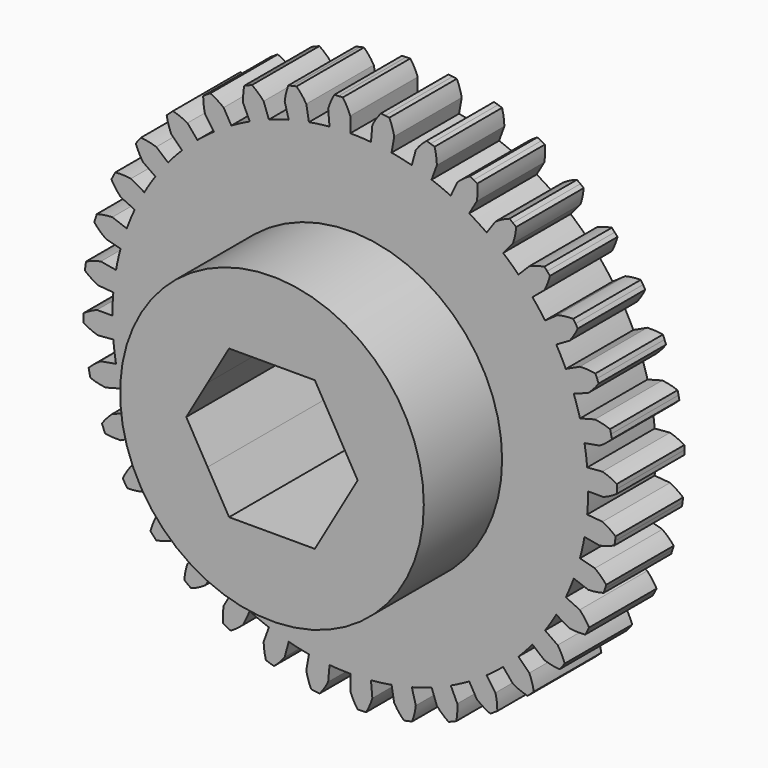
from build123d import *

# Parameters (mm, degrees)
F1_DEPTH = 6.35
F2_R     = 11.43
F3_DEPTH = 7.366
F5_DEPTH = 42.672


with BuildPart() as f1:
    # F0 (on Front) → F1 (new body)
    with BuildSketch(Plane.XZ):
        with BuildLine():
            ThreePointArc((0, 19.05), (0.00173287, 19.0499999212), (0.0034657401, 19.0499996847))
            ThreePointArc((0.0034657401, 19.0499996847), (0.001735123, 19.0544738234), (0, 19.0589462165))
            Line((0, 19.0589462165), (0, 19.05))
        make_face()
        with BuildLine():
            Line((0, 17.901144426), (0, 19.05))
            Line((0, 19.05), (0, 19.0589462165))
            ThreePointArc((0, 19.0589462165), (-0.2475502496, 19.595005357), (-0.5595310718, 20.096312144))
            ThreePointArc((-0.5595310718, 20.096312144), (-0.7182522058, 20.0912655295), (-0.8769285255, 20.0849653515))
            ThreePointArc((-0.8769285255, 20.0849653515), (-1.0355501307, 20.077412003), (-1.1941071242, 20.0686059552))
            ThreePointArc((-1.1941071242, 20.0686059552), (-1.4612089999, 19.5420158716), (-1.6610966135, 18.9864211721))
            Line((-1.6610966135, 18.9864211721), (-1.5601875385, 17.8330251669))
            ThreePointArc((-1.5601875385, 17.8330251669), (-2.3365682183, 17.7479976538), (-3.1085011077, 17.6291858185))
            Line((-3.1085011077, 17.6291858185), (-3.3095512788, 18.7693979983))
            ThreePointArc((-3.3095512788, 18.7693979983), (-3.6464263767, 19.2543265462), (-4.0407185192, 19.6938424554))
            ThreePointArc((-4.0407185192, 19.6938424554), (-4.1961519871, 19.6613108747), (-4.3513236426, 19.6275525567))
            ThreePointArc((-4.3513236426, 19.6275525567), (-4.5062238039, 19.5925696079), (-4.6608428063, 19.5563642108))
            ThreePointArc((-4.6608428063, 19.5563642108), (-4.8324453959, 18.9913924598), (-4.9328182604, 18.4095283724))
            Line((-4.9328182604, 18.4095283724), (-4.6331571066, 17.2911777212))
            ThreePointArc((-4.6331571066, 17.2911777212), (-5.3829779467, 17.0726248768), (-6.1225519823, 16.8215733207))
            Line((-6.1225519823, 16.8215733207), (-6.5185435166, 17.9095511196))
            ThreePointArc((-6.5185435166, 17.9095511196), (-6.9345076835, 18.3286147664), (-7.3991307791, 18.6929853294))
            ThreePointArc((-7.3991307791, 18.6929853294), (-7.5465538137, 18.633957238), (-7.6935059926, 18.5737665096))
            ThreePointArc((-7.6935059926, 18.5737665096), (-7.8399781471, 18.5124168996), (-7.9859611382, 18.4499122358))
            ThreePointArc((-7.9859611382, 18.4499122358), (-8.0568503839, 17.8637251983), (-8.0546587206, 17.2732713688))
            Line((-8.0546587206, 17.2732713688), (-7.5653505405, 16.2239465901))
            ThreePointArc((-7.5653505405, 16.2239465901), (-8.265828614, 15.8785090321), (-8.950572213, 15.5028458297))
            Line((-8.950572213, 15.5028458297), (-9.5294731083, 16.5055315929))
            ThreePointArc((-9.5294731083, 16.5055315929), (-10.0118874833, 16.8459973017), (-10.5327241944, 17.1241513032))
            ThreePointArc((-10.5327241944, 17.1241513032), (-10.6676574213, 17.0404202399), (-10.8019250562, 16.9556259658))
            ThreePointArc((-10.8019250562, 16.9556259658), (-10.9355187215, 16.8697737715), (-11.068430082, 16.7828690136))
            ThreePointArc((-11.068430082, 16.7828690136), (-11.03645205, 16.193277686), (-10.9317624515, 15.6121747553))
            Line((-10.9317624515, 15.6121747553), (-10.2676746265, 14.6637590516))
            ThreePointArc((-10.2676746265, 14.6637590516), (-10.8975262616, 14.2019327254), (-11.5066338362, 13.713072213))
            Line((-11.5066338362, 13.713072213), (-12.2508544817, 14.5999998409))
            ThreePointArc((-12.2508544817, 14.5999998409), (-12.7850611483, 14.8515227334), (-13.3462861149, 15.0350086049))
            ThreePointArc((-13.3462861149, 15.0350086049), (-13.4646296563, 14.9291186956), (-13.5821330929, 14.822297307))
            ThreePointArc((-13.5821330929, 14.822297307), (-13.6987890932, 14.7145511039), (-13.8145903787, 14.605886809))
            ThreePointArc((-13.8145903787, 14.605886809), (-13.6807167052, 14.0308056255), (-13.476710112, 13.476710112))
            Line((-13.476710112, 13.476710112), (-12.6580206146, 12.6580206146))
            ThreePointArc((-12.6580206146, 12.6580206146), (-13.1981080882, 12.0938378793), (-13.713072213, 11.5066338362))
            Line((-13.713072213, 11.5066338362), (-14.5999998409, 12.2508544817))
            ThreePointArc((-14.5999998409, 12.2508544817), (-15.1697671998, 12.4057921622), (-15.7543278853, 12.4890347782))
            ThreePointArc((-15.7543278853, 12.4890347782), (-15.8524859327, 12.3642034343), (-15.9496548885, 12.2386006449))
            ThreePointArc((-15.9496548885, 12.2386006449), (-16.0458286903, 12.1122342469), (-16.1410013372, 11.9851121247))
            ThreePointArc((-16.1410013372, 11.9851121247), (-15.9092997061, 11.442014636), (-15.6121747553, 10.9317624515))
            Line((-15.6121747553, 10.9317624515), (-14.6637590516, 10.2676746265))
            ThreePointArc((-14.6637590516, 10.2676746265), (-15.0976720791, 9.618277889), (-15.5028458297, 8.950572213))
            Line((-15.5028458297, 8.950572213), (-16.5055315929, 9.5294731083))
            ThreePointArc((-16.5055315929, 9.5294731083), (-17.0935475512, 9.5831178737), (-17.683682375, 9.5635879496))
            ThreePointArc((-17.683682375, 9.5635879496), (-17.7586724457, 9.4236081082), (-17.8325544913, 9.2830402953))
            ThreePointArc((-17.8325544913, 9.2830402953), (-17.9053239021, 9.1418932814), (-17.9769761379, 9.0001758732))
            ThreePointArc((-17.9769761379, 9.0001758732), (-17.6544866859, 8.5055638216), (-17.2732713688, 8.0546587206))
            Line((-17.2732713688, 8.0546587206), (-16.2239465901, 7.5653505405))
            ThreePointArc((-16.2239465901, 7.5653505405), (-16.5385009437, 6.8504713922), (-16.8215733207, 6.1225519823))
            Line((-16.8215733207, 6.1225519823), (-17.9095511196, 6.5185435166))
            ThreePointArc((-17.9095511196, 6.5185435166), (-18.4979491101, 6.4692653979), (-19.0757271241, 6.3475563405))
            ThreePointArc((-19.0757271241, 6.3475563405), (-19.1252706827, 6.1966812184), (-19.1736209495, 6.0454194638))
            ThreePointArc((-19.1736209495, 6.0454194638), (-19.2207749078, 5.8937805146), (-19.2667296154, 5.7417738321))
            ThreePointArc((-19.2667296154, 5.7417738321), (-18.8632510214, 5.3106757546), (-18.4095283724, 4.9328182604))
            Line((-18.4095283724, 4.9328182604), (-17.2911777212, 4.6331571066))
            ThreePointArc((-17.2911777212, 4.6331571066), (-17.476815826, 3.8745167886), (-17.6291858185, 3.1085011077))
            Line((-17.6291858185, 3.1085011077), (-18.7693979983, 3.3095512788))
            ThreePointArc((-18.7693979983, 3.3095512788), (-19.3402998456, 3.1588475666), (-19.8881655573, 2.9386574441))
            ThreePointArc((-19.8881655573, 2.9386574441), (-19.910757248, 2.7814713053), (-19.9321066375, 2.624111621))
            ThreePointArc((-19.9321066375, 2.624111621), (-19.952212394, 2.4665882093), (-19.9710732629, 2.3089108986))
            ThreePointArc((-19.9710732629, 2.3089108986), (-19.4988650199, 1.9544254922), (-18.9864211721, 1.6610966135))
            Line((-18.9864211721, 1.6610966135), (-17.8330251669, 1.5601875385))
            ThreePointArc((-17.8330251669, 1.5601875385), (-17.884106503, 0.780836953), (-17.901144426, 0))
            Line((-17.901144426, 0), (-19.0589462165, 0))
            ThreePointArc((-19.0589462165, 0), (-19.595005357, -0.2475502496), (-20.096312144, -0.5595310718))
            ThreePointArc((-20.096312144, -0.5595310718), (-20.0912655295, -0.7182522058), (-20.0849653515, -0.8769285255))
            ThreePointArc((-20.0849653515, -0.8769285255), (-20.077412003, -1.0355501307), (-20.0686059552, -1.1941071242))
            ThreePointArc((-20.0686059552, -1.1941071242), (-19.5420158716, -1.4612089999), (-18.9864211721, -1.6610966135))
            Line((-18.9864211721, -1.6610966135), (-17.8330251669, -1.5601875385))
            ThreePointArc((-17.8330251669, -1.5601875385), (-17.7479976538, -2.3365682183), (-17.6291858185, -3.1085011077))
            Line((-17.6291858185, -3.1085011077), (-18.7693979983, -3.3095512788))
            ThreePointArc((-18.7693979983, -3.3095512788), (-19.2543265462, -3.6464263767), (-19.6938424554, -4.0407185192))
            ThreePointArc((-19.6938424554, -4.0407185192), (-19.6613108747, -4.1961519871), (-19.6275525567, -4.3513236426))
            ThreePointArc((-19.6275525567, -4.3513236426), (-19.5925696079, -4.5062238039), (-19.5563642108, -4.6608428063))
            ThreePointArc((-19.5563642108, -4.6608428063), (-18.9913924598, -4.8324453959), (-18.4095283724, -4.9328182604))
            Line((-18.4095283724, -4.9328182604), (-17.2911777212, -4.6331571066))
            ThreePointArc((-17.2911777212, -4.6331571066), (-17.0726248768, -5.3829779467), (-16.8215733207, -6.1225519823))
            Line((-16.8215733207, -6.1225519823), (-17.9095511196, -6.5185435166))
            ThreePointArc((-17.9095511196, -6.5185435166), (-18.3286147664, -6.9345076835), (-18.6929853294, -7.3991307791))
            ThreePointArc((-18.6929853294, -7.3991307791), (-18.633957238, -7.5465538137), (-18.5737665096, -7.6935059926))
            ThreePointArc((-18.5737665096, -7.6935059926), (-18.5124168996, -7.8399781471), (-18.4499122358, -7.9859611382))
            ThreePointArc((-18.4499122358, -7.9859611382), (-17.8637251983, -8.0568503839), (-17.2732713688, -8.0546587206))
            Line((-17.2732713688, -8.0546587206), (-16.2239465901, -7.5653505405))
            ThreePointArc((-16.2239465901, -7.5653505405), (-15.8785090321, -8.265828614), (-15.5028458297, -8.950572213))
            Line((-15.5028458297, -8.950572213), (-16.5055315929, -9.5294731083))
            ThreePointArc((-16.5055315929, -9.5294731083), (-16.8459973017, -10.0118874833), (-17.1241513032, -10.5327241944))
            ThreePointArc((-17.1241513032, -10.5327241944), (-17.0404202399, -10.6676574213), (-16.9556259658, -10.8019250562))
            ThreePointArc((-16.9556259658, -10.8019250562), (-16.8697737715, -10.9355187215), (-16.7828690136, -11.068430082))
            ThreePointArc((-16.7828690136, -11.068430082), (-16.193277686, -11.03645205), (-15.6121747553, -10.9317624515))
            Line((-15.6121747553, -10.9317624515), (-14.6637590516, -10.2676746265))
            ThreePointArc((-14.6637590516, -10.2676746265), (-14.2019327254, -10.8975262616), (-13.713072213, -11.5066338362))
            Line((-13.713072213, -11.5066338362), (-14.5999998409, -12.2508544817))
            ThreePointArc((-14.5999998409, -12.2508544817), (-14.8515227334, -12.7850611483), (-15.0350086049, -13.3462861149))
            ThreePointArc((-15.0350086049, -13.3462861149), (-14.9291186956, -13.4646296563), (-14.822297307, -13.5821330929))
            ThreePointArc((-14.822297307, -13.5821330929), (-14.7145511039, -13.6987890932), (-14.605886809, -13.8145903787))
            ThreePointArc((-14.605886809, -13.8145903787), (-14.0308056255, -13.6807167052), (-13.476710112, -13.476710112))
            Line((-13.476710112, -13.476710112), (-12.6580206146, -12.6580206146))
            ThreePointArc((-12.6580206146, -12.6580206146), (-12.0938378793, -13.1981080882), (-11.5066338362, -13.713072213))
            Line((-11.5066338362, -13.713072213), (-12.2508544817, -14.5999998409))
            ThreePointArc((-12.2508544817, -14.5999998409), (-12.4057921622, -15.1697671998), (-12.4890347782, -15.7543278853))
            ThreePointArc((-12.4890347782, -15.7543278853), (-12.3642034343, -15.8524859327), (-12.2386006449, -15.9496548885))
            ThreePointArc((-12.2386006449, -15.9496548885), (-12.1122342469, -16.0458286903), (-11.9851121247, -16.1410013372))
            ThreePointArc((-11.9851121247, -16.1410013372), (-11.442014636, -15.9092997061), (-10.9317624515, -15.6121747553))
            Line((-10.9317624515, -15.6121747553), (-10.2676746265, -14.6637590516))
            ThreePointArc((-10.2676746265, -14.6637590516), (-9.618277889, -15.0976720791), (-8.950572213, -15.5028458297))
            Line((-8.950572213, -15.5028458297), (-9.5294731083, -16.5055315929))
            ThreePointArc((-9.5294731083, -16.5055315929), (-9.5831178737, -17.0935475512), (-9.5635879496, -17.683682375))
            ThreePointArc((-9.5635879496, -17.683682375), (-9.4236081082, -17.7586724457), (-9.2830402953, -17.8325544913))
            ThreePointArc((-9.2830402953, -17.8325544913), (-9.1418932814, -17.9053239021), (-9.0001758732, -17.9769761379))
            ThreePointArc((-9.0001758732, -17.9769761379), (-8.5055638216, -17.6544866859), (-8.0546587206, -17.2732713688))
            Line((-8.0546587206, -17.2732713688), (-7.5653505405, -16.2239465901))
            ThreePointArc((-7.5653505405, -16.2239465901), (-6.8504713922, -16.5385009437), (-6.1225519823, -16.8215733207))
            Line((-6.1225519823, -16.8215733207), (-6.5185435166, -17.9095511196))
            ThreePointArc((-6.5185435166, -17.9095511196), (-6.4692653979, -18.4979491101), (-6.3475563405, -19.0757271241))
            ThreePointArc((-6.3475563405, -19.0757271241), (-6.1966812184, -19.1252706827), (-6.0454194638, -19.1736209495))
            ThreePointArc((-6.0454194638, -19.1736209495), (-5.8937805146, -19.2207749078), (-5.7417738321, -19.2667296154))
            ThreePointArc((-5.7417738321, -19.2667296154), (-5.3106757546, -18.8632510214), (-4.9328182604, -18.4095283724))
            Line((-4.9328182604, -18.4095283724), (-4.6331571066, -17.2911777212))
            ThreePointArc((-4.6331571066, -17.2911777212), (-3.8745167886, -17.476815826), (-3.1085011077, -17.6291858185))
            Line((-3.1085011077, -17.6291858185), (-3.3095512788, -18.7693979983))
            ThreePointArc((-3.3095512788, -18.7693979983), (-3.1588475666, -19.3402998456), (-2.9386574441, -19.8881655573))
            ThreePointArc((-2.9386574441, -19.8881655573), (-2.7814713053, -19.910757248), (-2.624111621, -19.9321066375))
            ThreePointArc((-2.624111621, -19.9321066375), (-2.4665882093, -19.952212394), (-2.3089108986, -19.9710732629))
            ThreePointArc((-2.3089108986, -19.9710732629), (-1.9544254922, -19.4988650199), (-1.6610966135, -18.9864211721))
            Line((-1.6610966135, -18.9864211721), (-1.5601875385, -17.8330251669))
            ThreePointArc((-1.5601875385, -17.8330251669), (-0.780836953, -17.884106503), (0, -17.901144426))
            Line((0, -17.901144426), (0, -19.0589462165))
            ThreePointArc((0, -19.0589462165), (0.2475502496, -19.595005357), (0.5595310718, -20.096312144))
            ThreePointArc((0.5595310718, -20.096312144), (0.7182522058, -20.0912655295), (0.8769285255, -20.0849653515))
            ThreePointArc((0.8769285255, -20.0849653515), (1.0355501307, -20.077412003), (1.1941071242, -20.0686059552))
            ThreePointArc((1.1941071242, -20.0686059552), (1.4612089999, -19.5420158716), (1.6610966135, -18.9864211721))
            Line((1.6610966135, -18.9864211721), (1.5601875385, -17.8330251669))
            ThreePointArc((1.5601875385, -17.8330251669), (2.3365682183, -17.7479976538), (3.1085011077, -17.6291858185))
            Line((3.1085011077, -17.6291858185), (3.3095512788, -18.7693979983))
            ThreePointArc((3.3095512788, -18.7693979983), (3.6464263767, -19.2543265462), (4.0407185192, -19.6938424554))
            ThreePointArc((4.0407185192, -19.6938424554), (4.1961519871, -19.6613108747), (4.3513236426, -19.6275525567))
            ThreePointArc((4.3513236426, -19.6275525567), (4.5062238039, -19.5925696079), (4.6608428063, -19.5563642108))
            ThreePointArc((4.6608428063, -19.5563642108), (4.8324453959, -18.9913924598), (4.9328182604, -18.4095283724))
            Line((4.9328182604, -18.4095283724), (4.6331571066, -17.2911777212))
            ThreePointArc((4.6331571066, -17.2911777212), (5.3829779467, -17.0726248768), (6.1225519823, -16.8215733207))
            Line((6.1225519823, -16.8215733207), (6.5185435166, -17.9095511196))
            ThreePointArc((6.5185435166, -17.9095511196), (6.9345076835, -18.3286147664), (7.3991307791, -18.6929853294))
            ThreePointArc((7.3991307791, -18.6929853294), (7.5465538137, -18.633957238), (7.6935059926, -18.5737665096))
            ThreePointArc((7.6935059926, -18.5737665096), (7.8399781471, -18.5124168996), (7.9859611382, -18.4499122358))
            ThreePointArc((7.9859611382, -18.4499122358), (8.0568503839, -17.8637251983), (8.0546587206, -17.2732713688))
            Line((8.0546587206, -17.2732713688), (7.5653505405, -16.2239465901))
            ThreePointArc((7.5653505405, -16.2239465901), (8.265828614, -15.8785090321), (8.950572213, -15.5028458297))
            Line((8.950572213, -15.5028458297), (9.5294731083, -16.5055315929))
            ThreePointArc((9.5294731083, -16.5055315929), (10.0118874833, -16.8459973017), (10.5327241944, -17.1241513032))
            ThreePointArc((10.5327241944, -17.1241513032), (10.6676574213, -17.0404202399), (10.8019250562, -16.9556259658))
            ThreePointArc((10.8019250562, -16.9556259658), (10.9355187215, -16.8697737715), (11.068430082, -16.7828690136))
            ThreePointArc((11.068430082, -16.7828690136), (11.03645205, -16.193277686), (10.9317624515, -15.6121747553))
            Line((10.9317624515, -15.6121747553), (10.2676746265, -14.6637590516))
            ThreePointArc((10.2676746265, -14.6637590516), (10.8975262616, -14.2019327254), (11.5066338362, -13.713072213))
            Line((11.5066338362, -13.713072213), (12.2508544817, -14.5999998409))
            ThreePointArc((12.2508544817, -14.5999998409), (12.7850611483, -14.8515227334), (13.3462861149, -15.0350086049))
            ThreePointArc((13.3462861149, -15.0350086049), (13.4646296563, -14.9291186956), (13.5821330929, -14.822297307))
            ThreePointArc((13.5821330929, -14.822297307), (13.6987890932, -14.7145511039), (13.8145903787, -14.605886809))
            ThreePointArc((13.8145903787, -14.605886809), (13.6807167052, -14.0308056255), (13.476710112, -13.476710112))
            Line((13.476710112, -13.476710112), (12.6580206146, -12.6580206146))
            ThreePointArc((12.6580206146, -12.6580206146), (13.1981080882, -12.0938378793), (13.713072213, -11.5066338362))
            Line((13.713072213, -11.5066338362), (14.5999998409, -12.2508544817))
            ThreePointArc((14.5999998409, -12.2508544817), (15.1697671998, -12.4057921622), (15.7543278853, -12.4890347782))
            ThreePointArc((15.7543278853, -12.4890347782), (15.8524859327, -12.3642034343), (15.9496548885, -12.2386006449))
            ThreePointArc((15.9496548885, -12.2386006449), (16.0458286903, -12.1122342469), (16.1410013372, -11.9851121247))
            ThreePointArc((16.1410013372, -11.9851121247), (15.9092997061, -11.442014636), (15.6121747553, -10.9317624515))
            Line((15.6121747553, -10.9317624515), (14.6637590516, -10.2676746265))
            ThreePointArc((14.6637590516, -10.2676746265), (15.0976720791, -9.618277889), (15.5028458297, -8.950572213))
            Line((15.5028458297, -8.950572213), (16.5055315929, -9.5294731083))
            ThreePointArc((16.5055315929, -9.5294731083), (17.0935475512, -9.5831178737), (17.683682375, -9.5635879496))
            ThreePointArc((17.683682375, -9.5635879496), (17.7586724457, -9.4236081082), (17.8325544913, -9.2830402953))
            ThreePointArc((17.8325544913, -9.2830402953), (17.9053239021, -9.1418932814), (17.9769761379, -9.0001758732))
            ThreePointArc((17.9769761379, -9.0001758732), (17.6544866859, -8.5055638216), (17.2732713688, -8.0546587206))
            Line((17.2732713688, -8.0546587206), (16.2239465901, -7.5653505405))
            ThreePointArc((16.2239465901, -7.5653505405), (16.5385009437, -6.8504713922), (16.8215733207, -6.1225519823))
            Line((16.8215733207, -6.1225519823), (17.9095511196, -6.5185435166))
            ThreePointArc((17.9095511196, -6.5185435166), (18.4979491101, -6.4692653979), (19.0757271241, -6.3475563405))
            ThreePointArc((19.0757271241, -6.3475563405), (19.1252706827, -6.1966812184), (19.1736209495, -6.0454194638))
            ThreePointArc((19.1736209495, -6.0454194638), (19.2207749078, -5.8937805146), (19.2667296154, -5.7417738321))
            ThreePointArc((19.2667296154, -5.7417738321), (18.8632510214, -5.3106757546), (18.4095283724, -4.9328182604))
            Line((18.4095283724, -4.9328182604), (17.2911777212, -4.6331571066))
            ThreePointArc((17.2911777212, -4.6331571066), (17.476815826, -3.8745167886), (17.6291858185, -3.1085011077))
            Line((17.6291858185, -3.1085011077), (18.7693979983, -3.3095512788))
            ThreePointArc((18.7693979983, -3.3095512788), (19.3402998456, -3.1588475666), (19.8881655573, -2.9386574441))
            ThreePointArc((19.8881655573, -2.9386574441), (19.910757248, -2.7814713053), (19.9321066375, -2.624111621))
            ThreePointArc((19.9321066375, -2.624111621), (19.952212394, -2.4665882093), (19.9710732629, -2.3089108986))
            ThreePointArc((19.9710732629, -2.3089108986), (19.4988650199, -1.9544254922), (18.9864211721, -1.6610966135))
            Line((18.9864211721, -1.6610966135), (17.8330251669, -1.5601875385))
            ThreePointArc((17.8330251669, -1.5601875385), (17.884106503, -0.780836953), (17.901144426, 0))
            Line((17.901144426, 0), (19.0589462165, 0))
            ThreePointArc((19.0589462165, 0), (19.595005357, 0.2475502496), (20.096312144, 0.5595310718))
            ThreePointArc((20.096312144, 0.5595310718), (20.0912655295, 0.7182522058), (20.0849653515, 0.8769285255))
            ThreePointArc((20.0849653515, 0.8769285255), (20.077412003, 1.0355501307), (20.0686059552, 1.1941071242))
            ThreePointArc((20.0686059552, 1.1941071242), (19.5420158716, 1.4612089999), (18.9864211721, 1.6610966135))
            Line((18.9864211721, 1.6610966135), (17.8330251669, 1.5601875385))
            ThreePointArc((17.8330251669, 1.5601875385), (17.7479976538, 2.3365682183), (17.6291858185, 3.1085011077))
            Line((17.6291858185, 3.1085011077), (18.7693979983, 3.3095512788))
            ThreePointArc((18.7693979983, 3.3095512788), (19.2543265462, 3.6464263767), (19.6938424554, 4.0407185192))
            ThreePointArc((19.6938424554, 4.0407185192), (19.6613108747, 4.1961519871), (19.6275525567, 4.3513236426))
            ThreePointArc((19.6275525567, 4.3513236426), (19.5925696079, 4.5062238039), (19.5563642108, 4.6608428063))
            ThreePointArc((19.5563642108, 4.6608428063), (18.9913924598, 4.8324453959), (18.4095283724, 4.9328182604))
            Line((18.4095283724, 4.9328182604), (17.2911777212, 4.6331571066))
            ThreePointArc((17.2911777212, 4.6331571066), (17.0726248768, 5.3829779467), (16.8215733207, 6.1225519823))
            Line((16.8215733207, 6.1225519823), (17.9095511196, 6.5185435166))
            ThreePointArc((17.9095511196, 6.5185435166), (18.3286147664, 6.9345076835), (18.6929853294, 7.3991307791))
            ThreePointArc((18.6929853294, 7.3991307791), (18.633957238, 7.5465538137), (18.5737665096, 7.6935059926))
            ThreePointArc((18.5737665096, 7.6935059926), (18.5124168996, 7.8399781471), (18.4499122358, 7.9859611382))
            ThreePointArc((18.4499122358, 7.9859611382), (17.8637251983, 8.0568503839), (17.2732713688, 8.0546587206))
            Line((17.2732713688, 8.0546587206), (16.2239465901, 7.5653505405))
            ThreePointArc((16.2239465901, 7.5653505405), (15.8785090321, 8.265828614), (15.5028458297, 8.950572213))
            Line((15.5028458297, 8.950572213), (16.5055315929, 9.5294731083))
            ThreePointArc((16.5055315929, 9.5294731083), (16.8459973017, 10.0118874833), (17.1241513032, 10.5327241944))
            ThreePointArc((17.1241513032, 10.5327241944), (17.0404202399, 10.6676574213), (16.9556259658, 10.8019250562))
            ThreePointArc((16.9556259658, 10.8019250562), (16.8697737715, 10.9355187215), (16.7828690136, 11.068430082))
            ThreePointArc((16.7828690136, 11.068430082), (16.193277686, 11.03645205), (15.6121747553, 10.9317624515))
            Line((15.6121747553, 10.9317624515), (14.6637590516, 10.2676746265))
            ThreePointArc((14.6637590516, 10.2676746265), (14.2019327254, 10.8975262616), (13.713072213, 11.5066338362))
            Line((13.713072213, 11.5066338362), (14.5999998409, 12.2508544817))
            ThreePointArc((14.5999998409, 12.2508544817), (14.8515227334, 12.7850611483), (15.0350086049, 13.3462861149))
            ThreePointArc((15.0350086049, 13.3462861149), (14.9291186956, 13.4646296563), (14.822297307, 13.5821330929))
            ThreePointArc((14.822297307, 13.5821330929), (14.7145511039, 13.6987890932), (14.605886809, 13.8145903787))
            ThreePointArc((14.605886809, 13.8145903787), (14.0308056255, 13.6807167052), (13.476710112, 13.476710112))
            Line((13.476710112, 13.476710112), (12.6580206146, 12.6580206146))
            ThreePointArc((12.6580206146, 12.6580206146), (12.0938378793, 13.1981080882), (11.5066338362, 13.713072213))
            Line((11.5066338362, 13.713072213), (12.2508544817, 14.5999998409))
            ThreePointArc((12.2508544817, 14.5999998409), (12.4057921622, 15.1697671998), (12.4890347782, 15.7543278853))
            ThreePointArc((12.4890347782, 15.7543278853), (12.3642034343, 15.8524859327), (12.2386006449, 15.9496548885))
            ThreePointArc((12.2386006449, 15.9496548885), (12.1122342469, 16.0458286903), (11.9851121247, 16.1410013372))
            ThreePointArc((11.9851121247, 16.1410013372), (11.442014636, 15.9092997061), (10.9317624515, 15.6121747553))
            Line((10.9317624515, 15.6121747553), (10.2676746265, 14.6637590516))
            ThreePointArc((10.2676746265, 14.6637590516), (9.618277889, 15.0976720791), (8.950572213, 15.5028458297))
            Line((8.950572213, 15.5028458297), (9.5294731083, 16.5055315929))
            ThreePointArc((9.5294731083, 16.5055315929), (9.5831178737, 17.0935475512), (9.5635879496, 17.683682375))
            ThreePointArc((9.5635879496, 17.683682375), (9.4236081082, 17.7586724457), (9.2830402953, 17.8325544913))
            ThreePointArc((9.2830402953, 17.8325544913), (9.1418932814, 17.9053239021), (9.0001758732, 17.9769761379))
            ThreePointArc((9.0001758732, 17.9769761379), (8.5055638216, 17.6544866859), (8.0546587206, 17.2732713688))
            Line((8.0546587206, 17.2732713688), (7.5653505405, 16.2239465901))
            ThreePointArc((7.5653505405, 16.2239465901), (6.8504713922, 16.5385009437), (6.1225519823, 16.8215733207))
            Line((6.1225519823, 16.8215733207), (6.5185435166, 17.9095511196))
            ThreePointArc((6.5185435166, 17.9095511196), (6.4692653979, 18.4979491101), (6.3475563405, 19.0757271241))
            ThreePointArc((6.3475563405, 19.0757271241), (6.1966812184, 19.1252706827), (6.0454194638, 19.1736209495))
            ThreePointArc((6.0454194638, 19.1736209495), (5.8937805146, 19.2207749078), (5.7417738321, 19.2667296154))
            ThreePointArc((5.7417738321, 19.2667296154), (5.3106757546, 18.8632510214), (4.9328182604, 18.4095283724))
            Line((4.9328182604, 18.4095283724), (4.6331571066, 17.2911777212))
            ThreePointArc((4.6331571066, 17.2911777212), (3.8745167886, 17.476815826), (3.1085011077, 17.6291858185))
            Line((3.1085011077, 17.6291858185), (3.3095512788, 18.7693979983))
            ThreePointArc((3.3095512788, 18.7693979983), (3.1588475666, 19.3402998456), (2.9386574441, 19.8881655573))
            ThreePointArc((2.9386574441, 19.8881655573), (2.7814713053, 19.910757248), (2.624111621, 19.9321066375))
            ThreePointArc((2.624111621, 19.9321066375), (2.4665882093, 19.952212394), (2.3089108986, 19.9710732629))
            ThreePointArc((2.3089108986, 19.9710732629), (1.9544254922, 19.4988650199), (1.6610966135, 18.9864211721))
            Line((1.6610966135, 18.9864211721), (1.5601875385, 17.8330251669))
            ThreePointArc((1.5601875385, 17.8330251669), (0.780836953, 17.884106503), (0, 17.901144426))
        make_face()
    extrude(amount=F1_DEPTH)

    # F2 (on face) → F3 (join)
    with BuildSketch(Plane.XZ.offset(6.35)):
        Circle(F2_R)
    extrude(amount=F3_DEPTH)

    # F4 (on face) → F5 (cut)
    with BuildSketch(Plane.XZ.offset(13.716)):
        with BuildLine():
            ThreePointArc((4.8393499594, -2.7939999946), (5.3975935181, -1.446280821), (5.588, 0))
            ThreePointArc((5.588, 0), (5.3975935316, 1.4462807706), (4.8393500117, 2.7939999042))
            ThreePointArc((4.8393500117, 2.7939999042), (2.7940000479, 4.8393499287), (0, 5.588))
            ThreePointArc((0, 5.588), (-2.7939999854, 4.8393499648), (-4.8393499395, 2.7940000292))
            ThreePointArc((-4.8393499395, 2.7940000292), (-5.588, 2e-08), (-4.8393499594, -2.7939999946))
            ThreePointArc((-4.8393499594, -2.7939999946), (-2.7940000027, -4.8393499548), (0, -5.588))
            ThreePointArc((0, -5.588), (2.7940000027, -4.8393499548), (4.8393499594, -2.7939999946))
        make_face()
        with BuildLine():
            ThreePointArc((4.8393500117, 2.7939999042), (5.3975935316, 1.4462807706), (5.588, 0))
            ThreePointArc((5.588, 0), (5.3975935181, -1.446280821), (4.8393499594, -2.7939999946))
            Line((4.8393499594, -2.7939999946), (6.4524666085, 0))
            Line((6.4524666085, 0), (4.8393500117, 2.7939999042))
        make_face()
        with BuildLine():
            ThreePointArc((0, 5.588), (2.7940000479, 4.8393499287), (4.8393500117, 2.7939999042))
            Line((4.8393500117, 2.7939999042), (3.2262333042, 5.588))
            Line((3.2262333042, 5.588), (0, 5.588))
        make_face()
        with BuildLine():
            Line((3.2262333042, -5.588), (4.8393499594, -2.7939999946))
            ThreePointArc((4.8393499594, -2.7939999946), (2.7940000027, -4.8393499548), (0, -5.588))
            Line((0, -5.588), (3.2262333042, -5.588))
        make_face()
        with BuildLine():
            ThreePointArc((-4.8393499395, 2.7940000292), (-2.7939999854, 4.8393499648), (0, 5.588))
            Line((0, 5.588), (-3.2262333042, 5.588))
            Line((-3.2262333042, 5.588), (-4.8393499395, 2.7940000292))
        make_face()
        with BuildLine():
            Line((-3.2262333042, -5.588), (0, -5.588))
            ThreePointArc((0, -5.588), (-2.7940000027, -4.8393499548), (-4.8393499594, -2.7939999946))
            Line((-4.8393499594, -2.7939999946), (-3.2262333042, -5.588))
        make_face()
        with BuildLine():
            ThreePointArc((-4.8393499594, -2.7939999946), (-5.588, 2e-08), (-4.8393499395, 2.7940000292))
            Line((-4.8393499395, 2.7940000292), (-6.4524666085, 0))
            Line((-6.4524666085, 0), (-4.8393499594, -2.7939999946))
        make_face()
    extrude(amount=-F5_DEPTH, mode=Mode.SUBTRACT)


solid = f1.part
